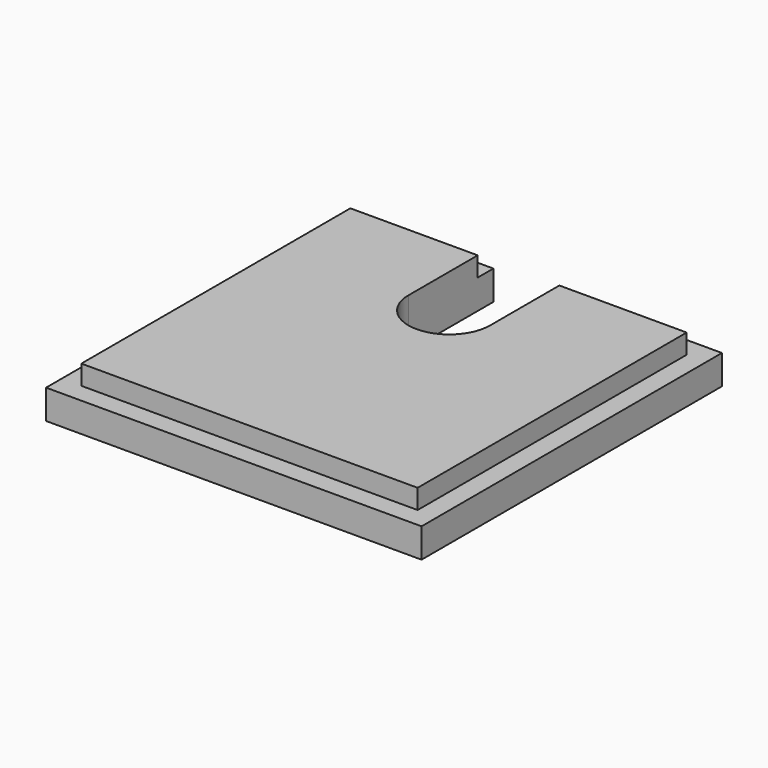
from build123d import *

# Parameters (mm, degrees)
SKETCH_W     = 23
SKETCH_H     = 23
PAD_DEPTH    = 1.8
SKETCH001_W  = 20.6
SKETCH001_H  = 20.6
PAD001_DEPTH = 1.2
POCKET_DEPTH = 5


with BuildPart() as part:
    # Sketch → Pad (new body)
    with BuildSketch(Plane.XY):
        Rectangle(SKETCH_W, SKETCH_H)
    extrude(amount=PAD_DEPTH)

    # Sketch001 (on Face6 of Pad) → Pad001 (join)
    with BuildSketch(Plane.XY.offset(1.8)):
        Rectangle(SKETCH001_W, SKETCH001_H)
    extrude(amount=PAD001_DEPTH)

    # Sketch002 (on Face4 of Pad001) → Pocket (cut)
    with BuildSketch(Plane(origin=(0, 0, 0), x_dir=(1, 0, 0), z_dir=(0, 0, -1))):
        with BuildLine():
            ThreePointArc((2.5, -5), (0, -2.5), (-2.5, -5))
            Line((-2.5, -5), (-2.5, -13.46))
            ThreePointArc((-2.5, -13.46), (0, -15.96), (2.5, -13.46))
            Line((2.5, -13.46), (2.5, -5))
        make_face()
    extrude(amount=-POCKET_DEPTH, mode=Mode.SUBTRACT)


solid = part.part
